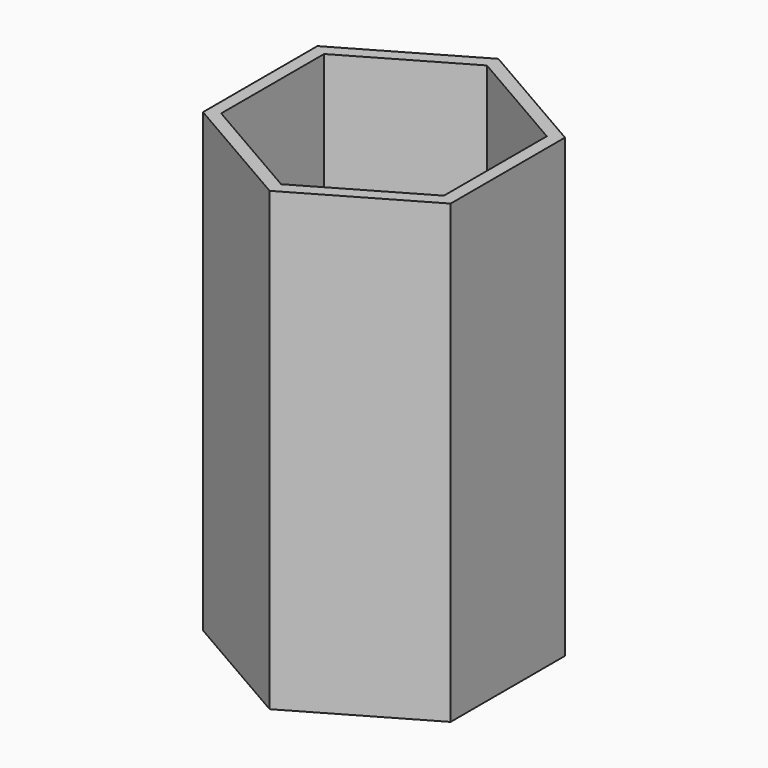
from build123d import *

# Parameters (mm, degrees)
F1_DEPTH = 11
F0_R     = 1
F2_DEPTH = 1


with BuildPart() as f1:
    # F0 (on Top) → F1 (new body)
    with BuildSketch(Plane.XY):
        Polygon((-2.984679, 1.723205), (-2.984679, -1.723205), (0, -3.44641), (2.984679, -1.723205), (2.984679, 1.723205), (0, 3.44641), align=None)
        Polygon((0, 3.1), (2.684679, 1.55), (2.684679, -1.55), (0, -3.1), (-2.684679, -1.55), (-2.684679, 1.55), align=None, mode=Mode.SUBTRACT)
    extrude(amount=F1_DEPTH)

    # F0 (on Top) → F2 (join)
    with BuildSketch(Plane.XY):
        Polygon((2.684679, -1.55), (2.684679, 1.55), (0, 3.1), (-2.684679, 1.55), (-2.684679, -1.55), (0, -3.1), align=None)
        Circle(F0_R, mode=Mode.SUBTRACT)
    extrude(amount=F2_DEPTH)


solid = f1.part
